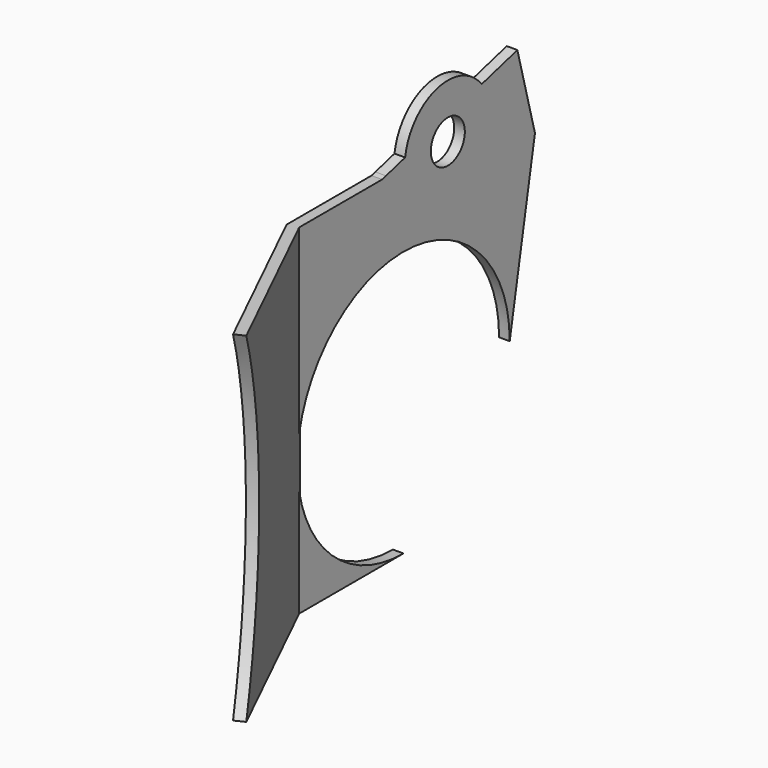
from build123d import *

# Parameters (mm, degrees)
F4_DEPTH = 3.175
F5_R     = 6.35
F6_DEPTH = 3.175


with BuildPart() as f4:
    # F2 (on face) → F4 (new body)
    with BuildSketch(Plane(origin=(-169.048635, -82.299993, 0), x_dir=(0.437724, -0.899109, 0), z_dir=(-0.899109, -0.437724, 0))):
        with BuildLine():
            Line((-34.450148, 101.6), (-91.273662, 101.6))
            Line((-91.273662, 101.6), (-91.273662, 0))
            Line((-91.273662, 0), (-34.450148, 0))
            ThreePointArc((-34.450148, 0), (-48.061967, 50.8), (-34.450148, 101.6))
        make_face()
    extrude(amount=-F4_DEPTH)

    # F5 (on face) → F6 (join)
    with BuildSketch(Plane(origin=(-209.00133, 0, 0), x_dir=(0, -1, 0), z_dir=(-1, 0, 0))):
        with BuildLine():
            ThreePointArc((-79.140002, 39.6875), (-39.452502, 79.375), (0.234998, 39.6875))
            Line((0.234998, 39.6875), (0.234998, 101.6))
            Line((0.234998, 101.6), (-31.488349, 101.6))
            Line((-31.488349, 101.6), (-32.911663, 101.981376))
            Line((-32.911663, 101.981376), (-40.074793, 103.90073))
            ThreePointArc((-40.074793, 103.90073), (-51.852469, 117.164131), (-68.683936, 111.566528))
            Line((-68.683936, 111.566528), (-81.995061, 115.133233))
            Line((-81.995061, 115.133233), (-88.569065, 90.598717))
            Line((-88.569065, 90.598717), (-79.140002, 39.6875))
        make_face()
        with Locations((-56.022865, 101.6)):
            Circle(F5_R, mode=Mode.SUBTRACT)
        with BuildLine():
            Line((0, 0), (0.232215, 39.21752))
            ThreePointArc((0.232215, 39.21752), (-11.555859, 11.458526), (-39.452502, 0))
            Line((-39.452502, 0), (0, 0))
        make_face()
    extrude(amount=-F6_DEPTH)


solid = f4.part
